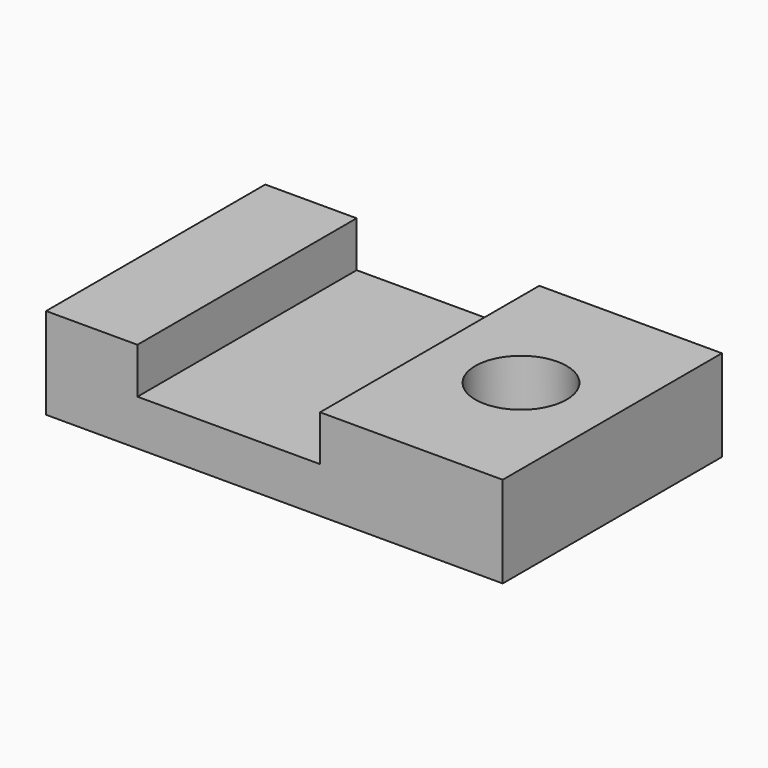
from build123d import *

# Parameters (mm, degrees)
F1_DEPTH = 76.2
F2_R     = 12.7
F3_DEPTH = 25.401


with BuildPart() as f1:
    # F0 (on Front) → F1 (new body)
    with BuildSketch(Plane.XZ):
        Polygon((-49.906094, 17.970772), (-75.316995, 17.970772), (-75.316995, -7.440129), (51.683005, -7.440129), (51.683005, 17.959871), (0.883005, 17.959871), (0.883005, 5.259871), (-49.906094, 5.260793), align=None)
    extrude(amount=F1_DEPTH)

    # F2 (on face) → F3 (cut, through all)
    with BuildSketch(Plane.XY.offset(17.959871)):
        with Locations((26.283005, -38.1)):
            Circle(F2_R)
    extrude(amount=-F3_DEPTH, mode=Mode.SUBTRACT)


solid = f1.part
